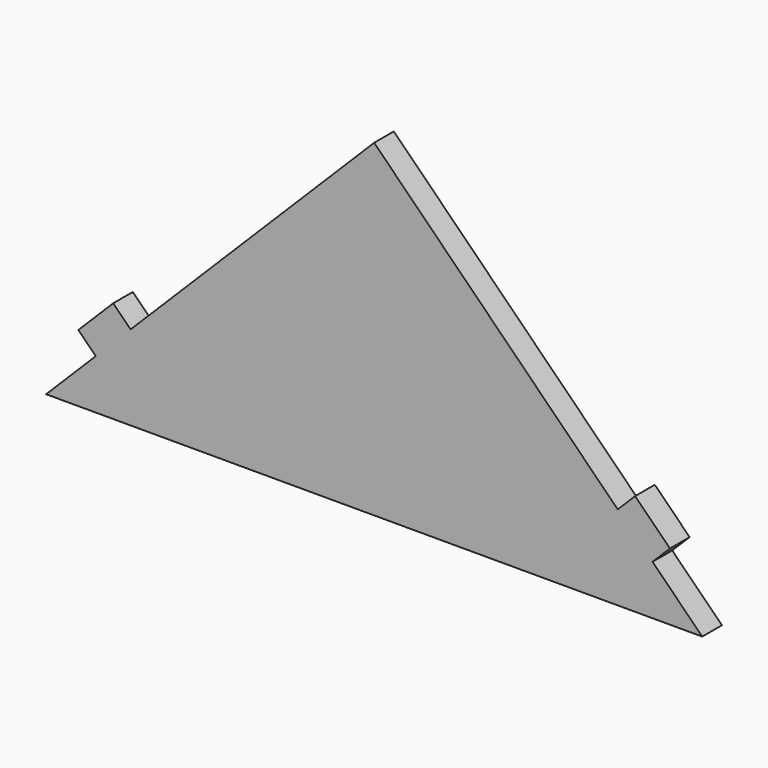
from build123d import *

# Parameters (mm, degrees)
F2_DEPTH = 3


with BuildPart() as f2:
    # F1 (on Front) → F2 (new body)
    with BuildSketch(Plane.XZ):
        Polygon((-33.941125497, 6.058874503), (-40, 0), (40, 0), (33.941125497, 6.058874503), (29.6984848098, 10.3015151902), (0, 40), (-29.6984848098, 10.3015151902), align=None)
        Polygon((29.6984848098, 10.3015151902), (33.941125497, 6.058874503), (36.0624458405, 8.1801948466), (31.8198051534, 12.4228355337), align=None)
        Polygon((-36.0624458405, 8.1801948466), (-33.941125497, 6.058874503), (-29.6984848098, 10.3015151902), (-31.8198051534, 12.4228355337), align=None)
    extrude(amount=F2_DEPTH)


solid = f2.part
